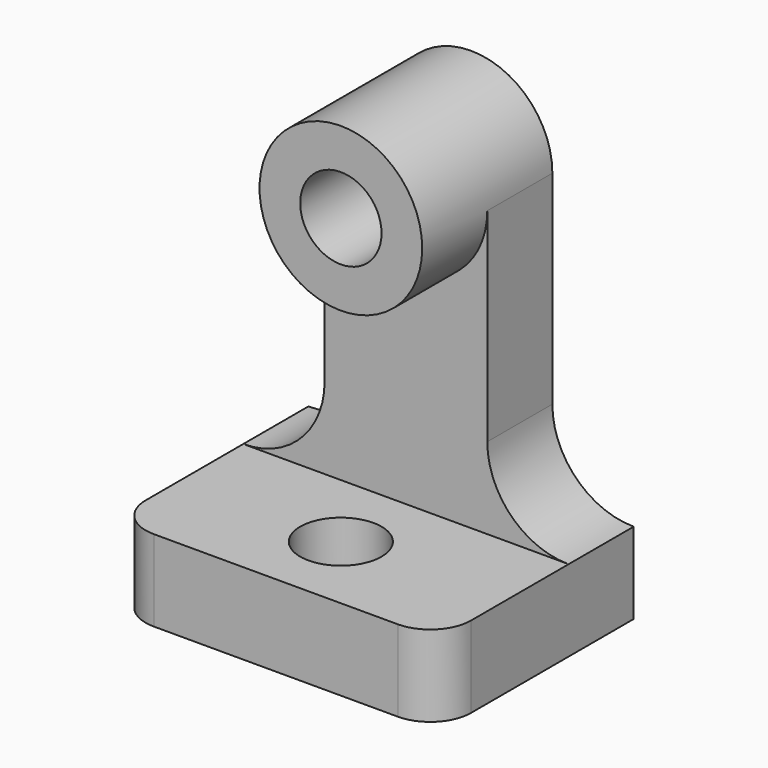
from build123d import *

# Parameters (mm, degrees)
F1_DEPTH = 12.7
F0_R     = 6.35
F2_DEPTH = 25.4
F3_DEPTH = 38.1
F4_R     = 6.35
F5_R     = 6.35
F6_DEPTH = 25.4


with BuildPart() as f1:
    # F0 (on Front) → F1 (new body)
    with BuildSketch(Plane.XZ):
        with BuildLine():
            Line((-25.4, 12.7), (25.4, 12.7))
            ThreePointArc((25.4, 12.7), (16.419744, 16.419744), (12.7, 25.4))
            Line((12.7, 25.4), (12.7, 57.15))
            ThreePointArc((12.7, 57.15), (0, 44.45), (-12.7, 57.15))
            Line((-12.7, 57.15), (-12.7, 25.4))
            ThreePointArc((-12.7, 25.4), (-16.419744, 16.419744), (-25.4, 12.7))
        make_face()
    extrude(amount=F1_DEPTH)

    # F0 (on Front) → F2 (join)
    with BuildSketch(Plane.XZ):
        with BuildLine():
            ThreePointArc((-12.7, 57.15), (0, 44.45), (12.7, 57.15))
            ThreePointArc((12.7, 57.15), (0, 69.85), (-12.7, 57.15))
        make_face()
        with Locations((0, 57.15)):
            Circle(F0_R, mode=Mode.SUBTRACT)
    extrude(amount=F2_DEPTH)

    # F0 (on Front) → F3 (join)
    with BuildSketch(Plane.XZ):
        Polygon((-25.4, 0), (0, 0), (25.4, 0), (25.4, 12.7), (-25.4, 12.7), align=None)
    extrude(amount=F3_DEPTH)

    # F4
    f4_edges = [f1.edges().sort_by_distance(p)[0] for p in [
        (-25.4, -38.1, 6.35),
        (25.4, -38.1, 6.35),
    ]]
    fillet(f4_edges, radius=F4_R)

    # F5 (on face) → F6 (cut)
    with BuildSketch(Plane(origin=(0, 0, 0), x_dir=(1, 0, 0), z_dir=(0, 0, -1))):
        with Locations((0, 25.4)):
            Circle(F5_R)
    extrude(amount=-F6_DEPTH, mode=Mode.SUBTRACT)


solid = f1.part
